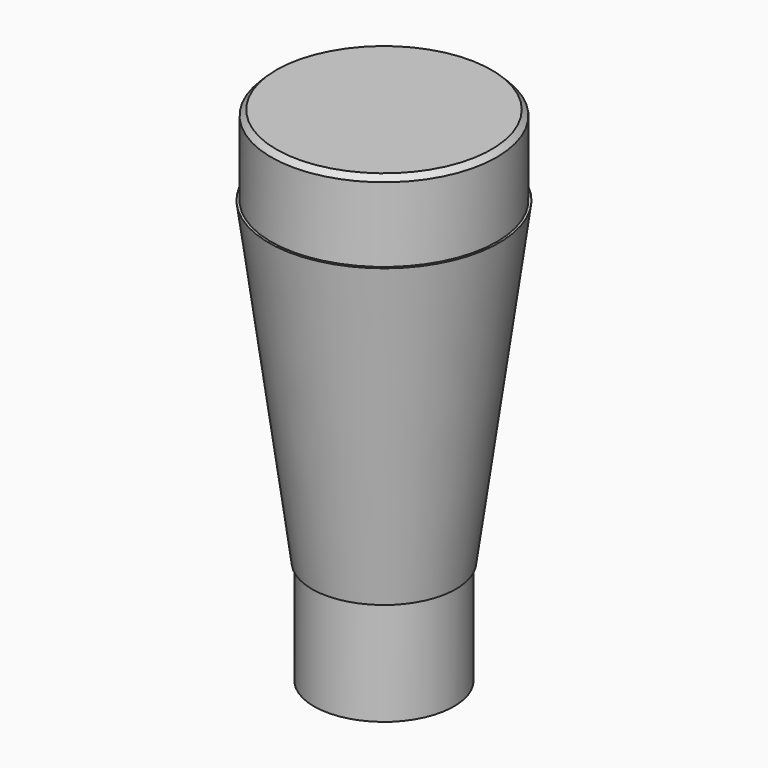
from build123d import *

# Parameters (mm, degrees)
F2_SIZE = 1.5


with BuildPart() as f1:
    # F0 (on Front) → F1 (revolve)
    with BuildSketch(Plane.XZ):
        Polygon((0, 66.266628), (-32.55, 66.266628), (-32.55, 43.266628), (-33.25, 43.266628), (-20.8, -48.733372), (-20.2, -48.733372), (-20.2, -78.733372), (0, -78.733372), align=None)
    revolve(axis=Axis((0, 0, -2.596696), (0, 0, -1)))

    # F2
    f2_edges = [f1.edges().sort_by_distance(p)[0] for p in [
        (32.55, 0, 66.266628),
    ]]
    chamfer(f2_edges, length=F2_SIZE)


solid = f1.part
